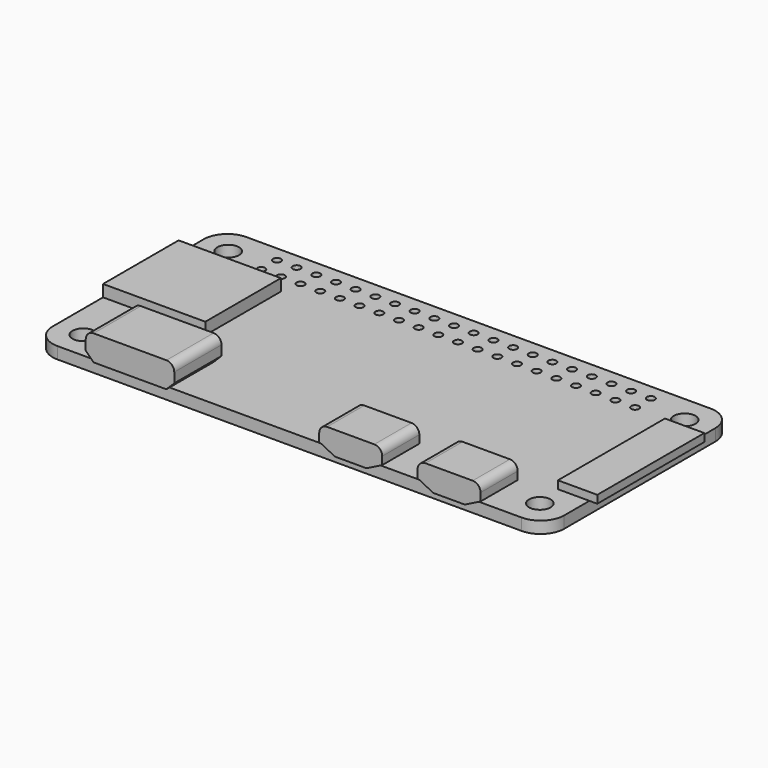
from build123d import *

# Parameters (mm, degrees)
F0_R       = 1.375
F0_R_2     = 0.5
F1_DEPTH   = 1.5
F2_W       = 13
F2_H       = 12
F3_DEPTH   = 1.5
F4_W       = 1
F4_H       = 17
F4_W_2     = 4
F5_DEPTH   = 1
F6_W       = 8
F6_H       = 4.55
F6_H_2     = 1.35
F7_DEPTH   = 3
F8_R       = 1
F8_2_R     = 1
F9_SIZE2   = 2
F9_SIZE    = 1
F9_2_SIZE2 = 2
F9_2_SIZE  = 1
F9_3_SIZE2 = 2
F9_3_SIZE  = 1
F9_4_SIZE2 = 2
F9_4_SIZE  = 1
F10_W      = 11.25
F10_H      = 7
F10_H_2    = 0.5
F11_DEPTH  = 3.25
F12_R      = 1
F13_SIZE   = 1


with BuildPart() as f1:
    # F0 (on Top) → F1 (new body)
    with BuildSketch(Plane.XY):
        with BuildLine():
            Line((-29.5, -15), (29.5, -15))
            ThreePointArc((29.5, -15), (31.6213203436, -14.1213203436), (32.5, -12))
            Line((32.5, -12), (32.5, 12))
            ThreePointArc((32.5, 12), (31.6213203436, 14.1213203436), (29.5, 15))
            Line((29.5, 15), (-29.5, 15))
            ThreePointArc((-29.5, 15), (-31.6213203436, 14.1213203436), (-32.5, 12))
            Line((-32.5, 12), (-32.5, -12))
            ThreePointArc((-32.5, -12), (-31.6213203436, -14.1213203436), (-29.5, -15))
        make_face()
        with Locations((-29, -11.5)):
            Circle(F0_R, mode=Mode.SUBTRACT)
        with Locations((29, -11.5)):
            Circle(F0_R, mode=Mode.SUBTRACT)
        with Locations((-24, 10.5)):
            Circle(F0_R_2, mode=Mode.SUBTRACT)
        with Locations((-21.5, 10.5)):
            Circle(F0_R_2, mode=Mode.SUBTRACT)
        with Locations((-19, 10.5)):
            Circle(F0_R_2, mode=Mode.SUBTRACT)
        with Locations((-16.5, 10.5)):
            Circle(F0_R_2, mode=Mode.SUBTRACT)
        with Locations((-29, 11.5)):
            Circle(F0_R, mode=Mode.SUBTRACT)
        with Locations((-24, 13)):
            Circle(F0_R_2, mode=Mode.SUBTRACT)
        with Locations((-21.5, 13)):
            Circle(F0_R_2, mode=Mode.SUBTRACT)
        with Locations((-19, 13)):
            Circle(F0_R_2, mode=Mode.SUBTRACT)
        with Locations((-16.5, 13)):
            Circle(F0_R_2, mode=Mode.SUBTRACT)
        with Locations((-14, 10.5)):
            Circle(F0_R_2, mode=Mode.SUBTRACT)
        with Locations((-11.5, 10.5)):
            Circle(F0_R_2, mode=Mode.SUBTRACT)
        with Locations((-9, 10.5)):
            Circle(F0_R_2, mode=Mode.SUBTRACT)
        with Locations((-6.5, 10.5)):
            Circle(F0_R_2, mode=Mode.SUBTRACT)
        with Locations((-4, 10.5)):
            Circle(F0_R_2, mode=Mode.SUBTRACT)
        with Locations((-1.5, 10.5)):
            Circle(F0_R_2, mode=Mode.SUBTRACT)
        with Locations((-14, 13)):
            Circle(F0_R_2, mode=Mode.SUBTRACT)
        with Locations((-11.5, 13)):
            Circle(F0_R_2, mode=Mode.SUBTRACT)
        with Locations((-9, 13)):
            Circle(F0_R_2, mode=Mode.SUBTRACT)
        with Locations((-6.5, 13)):
            Circle(F0_R_2, mode=Mode.SUBTRACT)
        with Locations((-4, 13)):
            Circle(F0_R_2, mode=Mode.SUBTRACT)
        with Locations((-1.5, 13)):
            Circle(F0_R_2, mode=Mode.SUBTRACT)
        with Locations((1, 10.5)):
            Circle(F0_R_2, mode=Mode.SUBTRACT)
        with Locations((3.5, 10.5)):
            Circle(F0_R_2, mode=Mode.SUBTRACT)
        with Locations((6, 10.5)):
            Circle(F0_R_2, mode=Mode.SUBTRACT)
        with Locations((8.5, 10.5)):
            Circle(F0_R_2, mode=Mode.SUBTRACT)
        with Locations((11, 10.5)):
            Circle(F0_R_2, mode=Mode.SUBTRACT)
        with Locations((13.5, 10.5)):
            Circle(F0_R_2, mode=Mode.SUBTRACT)
        with Locations((16, 10.5)):
            Circle(F0_R_2, mode=Mode.SUBTRACT)
        with Locations((1, 13)):
            Circle(F0_R_2, mode=Mode.SUBTRACT)
        with Locations((3.5, 13)):
            Circle(F0_R_2, mode=Mode.SUBTRACT)
        with Locations((6, 13)):
            Circle(F0_R_2, mode=Mode.SUBTRACT)
        with Locations((8.5, 13)):
            Circle(F0_R_2, mode=Mode.SUBTRACT)
        with Locations((11, 13)):
            Circle(F0_R_2, mode=Mode.SUBTRACT)
        with Locations((13.5, 13)):
            Circle(F0_R_2, mode=Mode.SUBTRACT)
        with Locations((16, 13)):
            Circle(F0_R_2, mode=Mode.SUBTRACT)
        with Locations((18.5, 10.5)):
            Circle(F0_R_2, mode=Mode.SUBTRACT)
        with Locations((21, 10.5)):
            Circle(F0_R_2, mode=Mode.SUBTRACT)
        with Locations((23.5, 10.5)):
            Circle(F0_R_2, mode=Mode.SUBTRACT)
        with Locations((18.5, 13)):
            Circle(F0_R_2, mode=Mode.SUBTRACT)
        with Locations((21, 13)):
            Circle(F0_R_2, mode=Mode.SUBTRACT)
        with Locations((23.5, 13)):
            Circle(F0_R_2, mode=Mode.SUBTRACT)
        with Locations((29, 11.5)):
            Circle(F0_R, mode=Mode.SUBTRACT)
    extrude(amount=F1_DEPTH)


with BuildPart() as f3:
    # F2 (on face) → F3 (new body)
    with BuildSketch(Plane.XY.offset(1.5)):
        with Locations((-26, 2)):
            Rectangle(F2_W, F2_H)
    extrude(amount=F3_DEPTH)


with BuildPart() as f5:
    # F4 (on face) → F5 (new body)
    with BuildSketch(Plane.XY.offset(1.5)):
        with Locations((33, 0.5)):
            Rectangle(F4_W, F4_H)
        with Locations((30.5, 0.5)):
            Rectangle(F4_W_2, F4_H)
    extrude(amount=F5_DEPTH)


with BuildPart() as f7:
    # F6 (on face) → F7 (new body)
    with BuildSketch(Plane.XY.offset(1.5)):
        with Locations((8.85, -12.725)):
            Rectangle(F6_W, F6_H)
        with Locations((8.85, -15.675)):
            Rectangle(F6_W, F6_H_2)
    extrude(amount=F7_DEPTH)

    # F8#2
    f8_2_edges = [f7.edges().sort_by_distance(p)[0] for p in [
        (12.85, -13.4, 4.5),
        (4.85, -13.4, 4.5),
    ]]
    fillet(f8_2_edges, radius=F8_2_R)

    # F9#3
    f9_3_edges = [f7.edges().sort_by_distance(p)[0] for p in [
        (12.85, -13.4, 1.5),
    ]]
    f9_3_side = f7.faces().sort_by_distance((12.85, -13.4, 2.5))[0]
    chamfer(f9_3_edges, length=F9_3_SIZE, length2=F9_3_SIZE2, reference=f9_3_side)

    # F9#4
    f9_4_edges = [f7.edges().sort_by_distance(p)[0] for p in [
        (4.85, -13.4, 1.5),
    ]]
    f9_4_side = f7.faces().sort_by_distance((4.85, -13.4, 2.5))[0]
    chamfer(f9_4_edges, length=F9_4_SIZE, length2=F9_4_SIZE2, reference=f9_4_side)


with BuildPart() as f7b:
    # F6 (on face) → F7, piece 2 (new body)
    with BuildSketch(Plane.XY.offset(1.5)):
        with Locations((21.35, -12.725)):
            Rectangle(F6_W, F6_H)
        with Locations((21.35, -15.675)):
            Rectangle(F6_W, F6_H_2)
    extrude(amount=F7_DEPTH)

    # F8
    f8_edges = [f7b.edges().sort_by_distance(p)[0] for p in [
        (25.35, -13.4, 4.5),
        (17.35, -13.4, 4.5),
    ]]
    fillet(f8_edges, radius=F8_R)

    # F9
    f9_edges = [f7b.edges().sort_by_distance(p)[0] for p in [
        (25.35, -13.4, 1.5),
    ]]
    f9_side = f7b.faces().sort_by_distance((25.35, -13.4, 2.5))[0]
    chamfer(f9_edges, length=F9_SIZE, length2=F9_SIZE2, reference=f9_side)

    # F9#2
    f9_2_edges = [f7b.edges().sort_by_distance(p)[0] for p in [
        (17.35, -13.4, 1.5),
    ]]
    f9_2_side = f7b.faces().sort_by_distance((17.35, -13.4, 2.5))[0]
    chamfer(f9_2_edges, length=F9_2_SIZE, length2=F9_2_SIZE2, reference=f9_2_side)


with BuildPart() as f11:
    # F10 (on face) → F11 (new body)
    with BuildSketch(Plane.XY.offset(1.5)):
        with Locations((-19.875, -11.5)):
            Rectangle(F10_W, F10_H)
        with Locations((-19.875, -15.25)):
            Rectangle(F10_W, F10_H_2)
    extrude(amount=F11_DEPTH)

    # F12
    f12_edges = [f11.edges().sort_by_distance(p)[0] for p in [
        (-25.5, -11.75, 4.75),
        (-14.25, -11.75, 4.75),
    ]]
    fillet(f12_edges, radius=F12_R)

    # F13
    f13_edges = [f11.edges().sort_by_distance(p)[0] for p in [
        (-25.5, -11.75, 1.5),
        (-14.25, -11.75, 1.5),
    ]]
    chamfer(f13_edges, length=F13_SIZE)


solid = Compound([f1.part, f3.part, f5.part, f7.part, f7b.part, f11.part])
